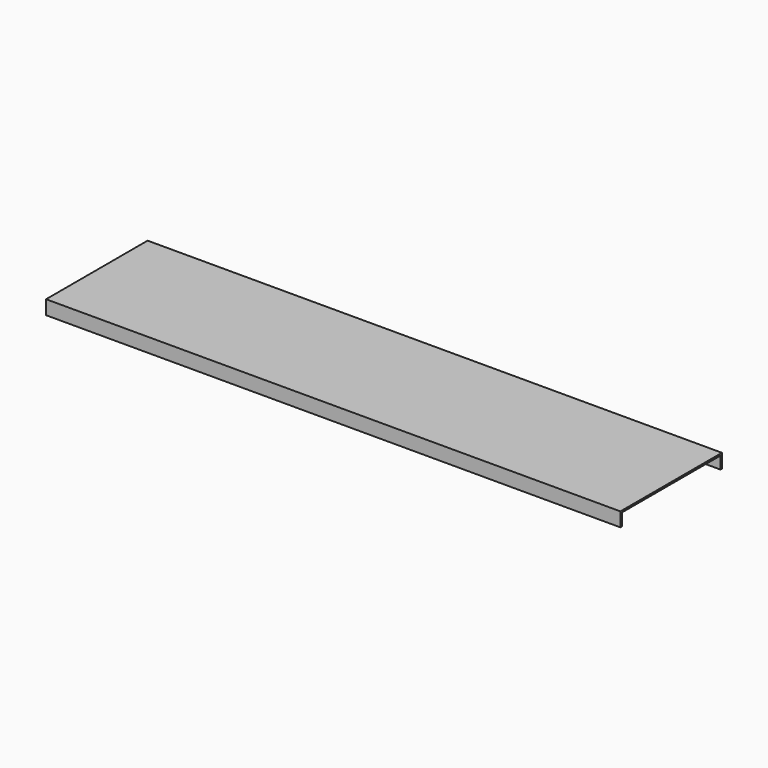
from build123d import *

# Parameters (mm, degrees)
F1_DEPTH = 2069.084


with BuildPart() as f1:
    # F0 (on Right) → F1 (new body)
    with BuildSketch(Plane.YZ):
        Polygon((228.6, 0), (0, 0), (0, -6.35), (222.25, -6.35), (222.25, -50.8), (228.6, -50.8), align=None)
        Polygon((0, -6.35), (0, 0), (-228.6, 0), (-228.6, -50.8), (-222.25, -50.8), (-222.25, -6.35), align=None)
    extrude(amount=F1_DEPTH)


solid = f1.part
